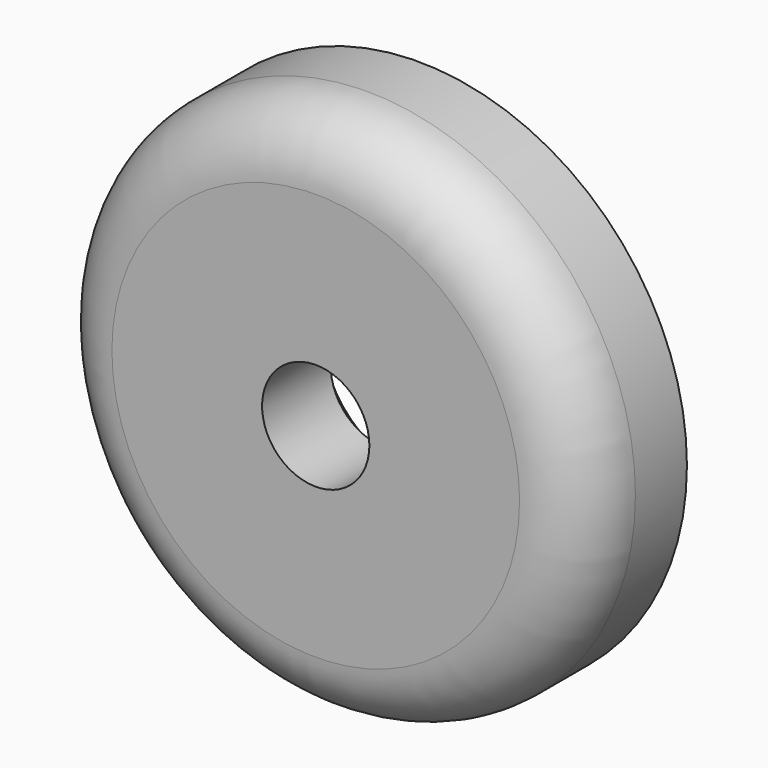
from build123d import *

# Parameters (mm, degrees)
F0_R     = 12.5
F0_R_2   = 2.5
F1_DEPTH = 6
F2_R     = 3
F3_SIZE  = 2


with BuildPart() as f1:
    # F0 (on Front) → F1 (new body)
    with BuildSketch(Plane.XZ):
        Circle(F0_R)
        Circle(F0_R_2, mode=Mode.SUBTRACT)
    extrude(amount=F1_DEPTH)

    # F2
    f2_edges = [f1.edges().sort_by_distance(p)[0] for p in [
        (-12.5, -6, 0),
    ]]
    fillet(f2_edges, radius=F2_R)

    # F3
    f3_edges = [f1.edges().sort_by_distance(p)[0] for p in [
        (-2.5, 0, 0),
    ]]
    chamfer(f3_edges, length=F3_SIZE)


solid = f1.part
